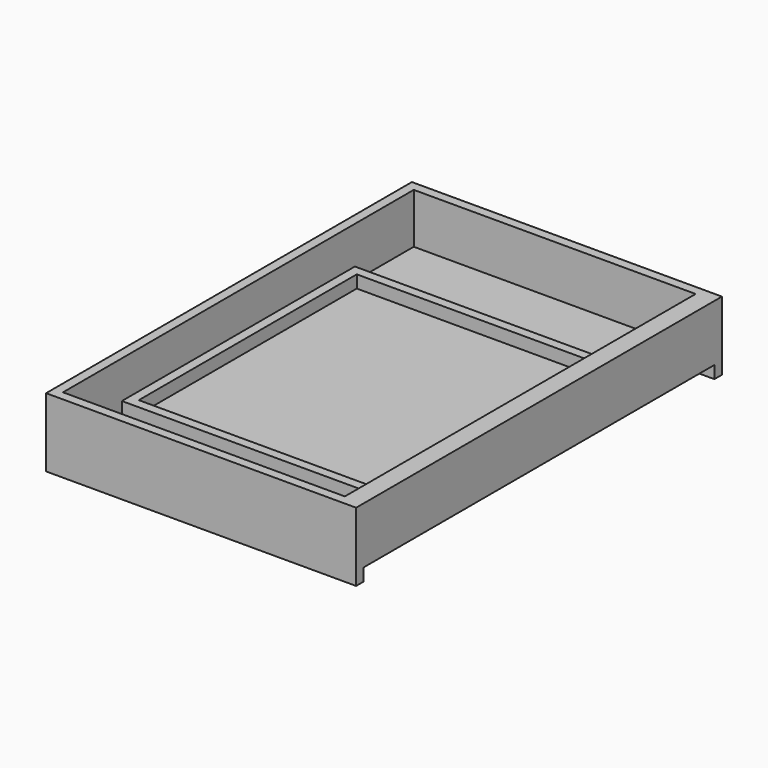
from build123d import *

# Parameters (mm, degrees)
F0_W          = 609.6
F0_H          = 889
F1_DEPTH      = 12.7
F3_DEPTH      = 25.4
F5_DEPTH      = 25.4
F5_DEPTH_BACK = 114.3
F7_DEPTH      = 101.6


with BuildPart() as f1:
    # F0 (on Top) → F1 (new body)
    with BuildSketch(Plane.XY):
        Rectangle(F0_W, F0_H)
    extrude(amount=F1_DEPTH)

    # F2 (on face) → F3 (join)
    with BuildSketch(Plane.XY.offset(12.7)):
        Polygon((-285.75, -276.225), (-285.75, 276.225), (266.7, 276.225), (266.7, 295.275), (-304.8, 295.275), (-304.8, -295.275), (266.7, -295.275), (266.7, -276.225), align=None)
    extrude(amount=F3_DEPTH)

    # F4 (on face) → F5 (join, two sides)
    with BuildSketch(Plane(origin=(0, 0, 0), x_dir=(1, 0, 0), z_dir=(0, 0, -1))) as f5_sk:
        Polygon((-304.8, 444.5), (304.8, 444.5), (304.8, 463.55), (-323.85, 463.55), (-323.85, -463.55), (304.8, -463.55), (304.8, -444.5), (-304.8, -444.5), align=None)
    extrude(amount=F5_DEPTH)
    extrude(f5_sk.sketch, amount=-F5_DEPTH_BACK)

    # F6 (on face) → F7 (join, through all)
    with BuildSketch(Plane.XY.offset(12.7)):
        Polygon((304.8, -444.5), (304.8, 444.5), (266.7, 444.5), (266.7, 295.275), (266.7, 276.225), (266.7, -276.225), (266.7, -295.275), (266.7, -444.5), align=None)
    extrude(amount=F7_DEPTH)


solid = f1.part
